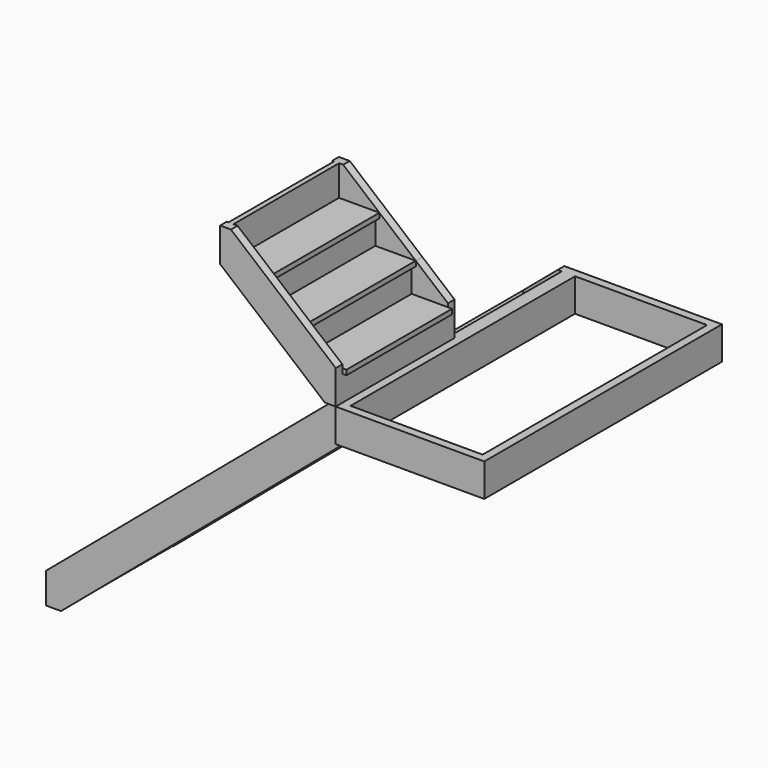
from build123d import *

# Parameters (mm, degrees)
F0_W      = 30
F0_H      = 156
F0_H_2    = 186
F3_DEPTH  = 800
F5_DEPTH  = 800
F6_DEPTH  = 50
F8_DEPTH  = 50
F9_W      = 900
F9_H      = 1800
F9_W_2    = 800
F9_H_2    = 1700
F10_DEPTH = 200
F12_DEPTH = 50
F13_W     = 30
F13_H     = 154.5
F13_H_2   = 184.5
F14_DEPTH = 800
F16_DEPTH = 50


with BuildPart() as f3:
    # F0 (on Front) → F3 (new body)
    with BuildSketch(Plane.XZ):
        with Locations((15, 78)):
            Rectangle(F0_W, F0_H)
        Polygon((-25, 156), (0, 156), (30, 156), (220, 156), (250, 156), (250, 186), (220, 186), (0, 186), (-25, 186), align=None)
        with Locations((235, 264)):
            Rectangle(F0_W, F0_H)
        Polygon((220, 342), (250, 342), (440, 342), (470, 342), (470, 372), (440, 372), (220, 372), (195, 372), (195, 342), align=None)
        with Locations((455, 450)):
            Rectangle(F0_W, F0_H)
        Polygon((440, 528), (470, 528), (660, 528), (690, 528), (690, 558), (660, 558), (440, 558), (415, 558), (415, 528), align=None)
        with Locations((675, 636)):
            Rectangle(F0_W, F0_H)
        Polygon((660, 714), (690, 714), (880, 714), (910, 714), (910, 744), (880, 744), (660, 744), (635, 744), (635, 714), align=None)
        with Locations((895, 822)):
            Rectangle(F0_W, F0_H)
        Polygon((880, 900), (910, 900), (1100, 900), (1130, 900), (1130, 930), (1100, 930), (880, 930), (855, 930), (855, 900), align=None)
        with Locations((1115, 1008)):
            Rectangle(F0_W, F0_H)
        Polygon((1100, 1086), (1130, 1086), (1320, 1086), (1350, 1086), (1350, 1116), (1320, 1116), (1100, 1116), (1075, 1116), (1075, 1086), align=None)
        with Locations((1335, 1194)):
            Rectangle(F0_W, F0_H)
        Polygon((1320, 1272), (1350, 1272), (1540, 1272), (1570, 1272), (1570, 1302), (1540, 1302), (1320, 1302), (1295, 1302), (1295, 1272), align=None)
        with Locations((1555, 1380)):
            Rectangle(F0_W, F0_H)
        Polygon((1540, 1458), (1570, 1458), (1760, 1458), (1790, 1458), (1790, 1488), (1760, 1488), (1540, 1488), (1515, 1488), (1515, 1458), align=None)
        with Locations((1775, 1566)):
            Rectangle(F0_W, F0_H)
        Polygon((1760, 1644), (1790, 1644), (1980, 1644), (2010, 1644), (2010, 1674), (1980, 1674), (1760, 1674), (1735, 1674), (1735, 1644), align=None)
        with Locations((1995, 1752)):
            Rectangle(F0_W, F0_H)
        Polygon((1980, 1830), (2010, 1830), (2200, 1830), (2230, 1830), (2230, 1860), (2200, 1860), (1980, 1860), (1955, 1860), (1955, 1830), align=None)
        with Locations((2215, 1938)):
            Rectangle(F0_W, F0_H)
        Polygon((2200, 2016), (2230, 2016), (2420, 2016), (2450, 2016), (2450, 2046), (2420, 2046), (2200, 2046), (2175, 2046), (2175, 2016), align=None)
        with Locations((2435, 2139)):
            Rectangle(F0_W, F0_H_2)
    extrude(amount=F3_DEPTH)

    # F0 (on Front) → F5 (join)
    with BuildSketch(Plane.XZ):
        with Locations((15, 78)):
            Rectangle(F0_W, F0_H)
        Polygon((-25, 156), (0, 156), (30, 156), (220, 156), (250, 156), (250, 186), (220, 186), (0, 186), (-25, 186), align=None)
        with Locations((235, 264)):
            Rectangle(F0_W, F0_H)
        Polygon((220, 342), (250, 342), (440, 342), (470, 342), (470, 372), (440, 372), (220, 372), (195, 372), (195, 342), align=None)
        with Locations((455, 450)):
            Rectangle(F0_W, F0_H)
        Polygon((440, 528), (470, 528), (660, 528), (690, 528), (690, 558), (660, 558), (440, 558), (415, 558), (415, 528), align=None)
        with Locations((675, 636)):
            Rectangle(F0_W, F0_H)
        Polygon((660, 714), (690, 714), (880, 714), (910, 714), (910, 744), (880, 744), (660, 744), (635, 744), (635, 714), align=None)
        with Locations((895, 822)):
            Rectangle(F0_W, F0_H)
        Polygon((880, 900), (910, 900), (1100, 900), (1130, 900), (1130, 930), (1100, 930), (880, 930), (855, 930), (855, 900), align=None)
        with Locations((1115, 1008)):
            Rectangle(F0_W, F0_H)
        Polygon((1100, 1086), (1130, 1086), (1320, 1086), (1350, 1086), (1350, 1116), (1320, 1116), (1100, 1116), (1075, 1116), (1075, 1086), align=None)
        with Locations((1335, 1194)):
            Rectangle(F0_W, F0_H)
        Polygon((1320, 1272), (1350, 1272), (1540, 1272), (1570, 1272), (1570, 1302), (1540, 1302), (1320, 1302), (1295, 1302), (1295, 1272), align=None)
        with Locations((1555, 1380)):
            Rectangle(F0_W, F0_H)
        Polygon((1540, 1458), (1570, 1458), (1760, 1458), (1790, 1458), (1790, 1488), (1760, 1488), (1540, 1488), (1515, 1488), (1515, 1458), align=None)
        with Locations((1775, 1566)):
            Rectangle(F0_W, F0_H)
        Polygon((1760, 1644), (1790, 1644), (1980, 1644), (2010, 1644), (2010, 1674), (1980, 1674), (1760, 1674), (1735, 1674), (1735, 1644), align=None)
        with Locations((1995, 1752)):
            Rectangle(F0_W, F0_H)
        Polygon((1980, 1830), (2010, 1830), (2200, 1830), (2230, 1830), (2230, 1860), (2200, 1860), (1980, 1860), (1955, 1860), (1955, 1830), align=None)
        with Locations((2215, 1938)):
            Rectangle(F0_W, F0_H)
        Polygon((2200, 2016), (2230, 2016), (2420, 2016), (2450, 2016), (2450, 2046), (2420, 2046), (2200, 2046), (2175, 2046), (2175, 2016), align=None)
        with Locations((2435, 2139)):
            Rectangle(F0_W, F0_H_2)
    extrude(amount=F5_DEPTH)

    # F4 (on Front) → F6 (join)
    with BuildSketch(Plane.XZ):
        Polygon((2395, 2232), (-25, 186), (-25, 0), (65.483871, 0), (2450, 2016), (2450, 2232), align=None)
    extrude(amount=-F6_DEPTH)

    # F7 (on face) → F8 (join)
    with BuildSketch(Plane.XZ.offset(800)):
        Polygon((65.483871, 0), (2450, 2016), (2450, 2232), (2396.453381, 2232), (-25, 186), (-25, 0), align=None)
    extrude(amount=F8_DEPTH)

    # F9 (on face) → F10 (join)
    with BuildSketch(Plane.XY.offset(2232)):
        with Locations((2900, -850)):
            Rectangle(F9_W, F9_H)
        with Locations((2900, -850)):
            Rectangle(F9_W_2, F9_H_2, mode=Mode.SUBTRACT)
    extrude(amount=-F10_DEPTH)



with BuildPart() as f12:
    # F11 (on face) → F12 (new body)
    with BuildSketch(Plane.XZ.offset(850)):
        Polygon((2420, 2232), (2450, 2232), (2450, 2416.5), (2450, 2437.465909), (2255, 2601), (2035, 2785.5), (1815, 2970), (1790, 2970), (1760, 2970), (1749.227642, 2970), (1749.227642, 2764.534091), (2170, 2411.659091), (2200, 2386.5), (2384.227642, 2232), align=None)
    extrude(amount=F12_DEPTH)


with BuildPart() as f3_1:
    add(f3.part)

    add(f12.part)  # F14 merges F12
    # F13 (on face) → F14 (join)
    with BuildSketch(Plane.XZ.offset(900)):
        with Locations((2435, 2309.25)):
            Rectangle(F13_W, F13_H)
        Polygon((2420, 2386.5), (2450, 2386.5), (2475, 2386.5), (2475, 2416.5), (2450, 2416.5), (2230, 2416.5), (2200, 2416.5), (2200, 2386.5), (2230, 2386.5), align=None)
        with Locations((2215, 2493.75)):
            Rectangle(F13_W, F13_H)
        Polygon((2010, 2571), (2200, 2571), (2230, 2571), (2255, 2571), (2255, 2601), (2230, 2601), (2010, 2601), (1980, 2601), (1980, 2571), align=None)
        with Locations((1995, 2678.25)):
            Rectangle(F13_W, F13_H)
        Polygon((1790, 2755.5), (1980, 2755.5), (2010, 2755.5), (2035, 2755.5), (2035, 2785.5), (2010, 2785.5), (1790, 2785.5), (1760, 2785.5), (1760, 2755.5), align=None)
        with Locations((1775, 2877.75)):
            Rectangle(F13_W, F13_H_2)
    extrude(amount=F14_DEPTH)

    # F15 (on face) → F16 (join)
    with BuildSketch(Plane.XZ.offset(1700)):
        Polygon((2384.227642, 2232), (2450, 2232), (2450, 2437.465909), (1815, 2970), (1749.227642, 2970), (1749.227642, 2764.534091), align=None)
    extrude(amount=F16_DEPTH)


solid = f3_1.part
